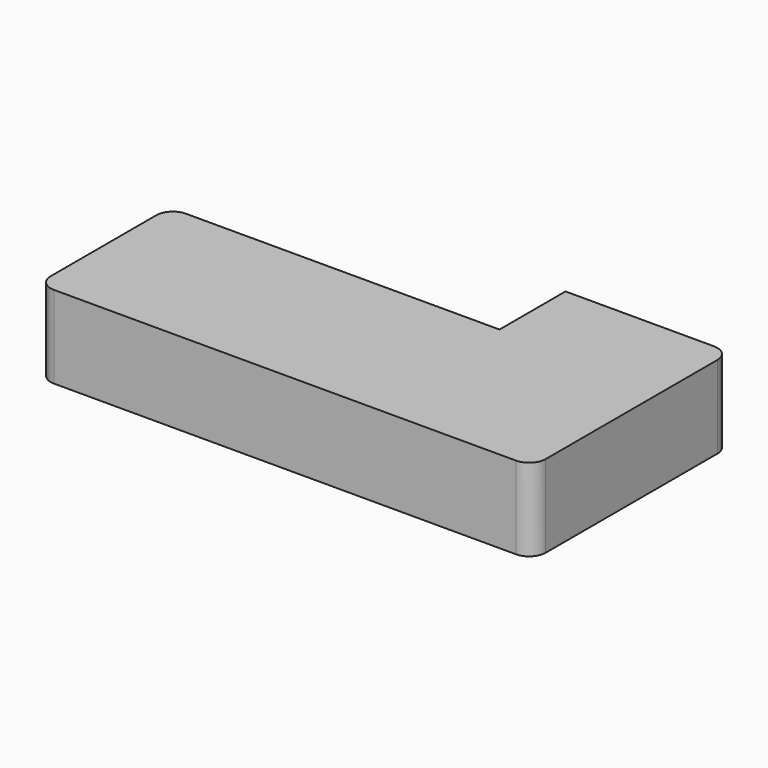
from build123d import *

# Parameters (mm, degrees)
F1_DEPTH = 25.4
F2_R     = 5.08
F3_R     = 5.08
F4_R     = 5.08
F5_R     = 5.08


with BuildPart() as f1:
    # F0 (on Top) → F1 (new body)
    with BuildSketch(Plane.XY):
        Polygon((0, 50.8), (0, 0), (152.4, 0), (152.4, 76.2), (101.6, 76.2), (101.6, 50.8), align=None)
    extrude(amount=-F1_DEPTH)

    # F2
    f2_edges = [f1.edges().sort_by_distance(p)[0] for p in [
        (152.4, 76.2, -12.7),
    ]]
    fillet(f2_edges, radius=F2_R)

    # F3
    f3_edges = [f1.edges().sort_by_distance(p)[0] for p in [
        (0, 50.8, -12.7),
    ]]
    fillet(f3_edges, radius=F3_R)

    # F4
    f4_edges = [f1.edges().sort_by_distance(p)[0] for p in [
        (0, 0, -12.7),
    ]]
    fillet(f4_edges, radius=F4_R)

    # F5
    f5_edges = [f1.edges().sort_by_distance(p)[0] for p in [
        (152.4, 0, -12.7),
    ]]
    fillet(f5_edges, radius=F5_R)


solid = f1.part
